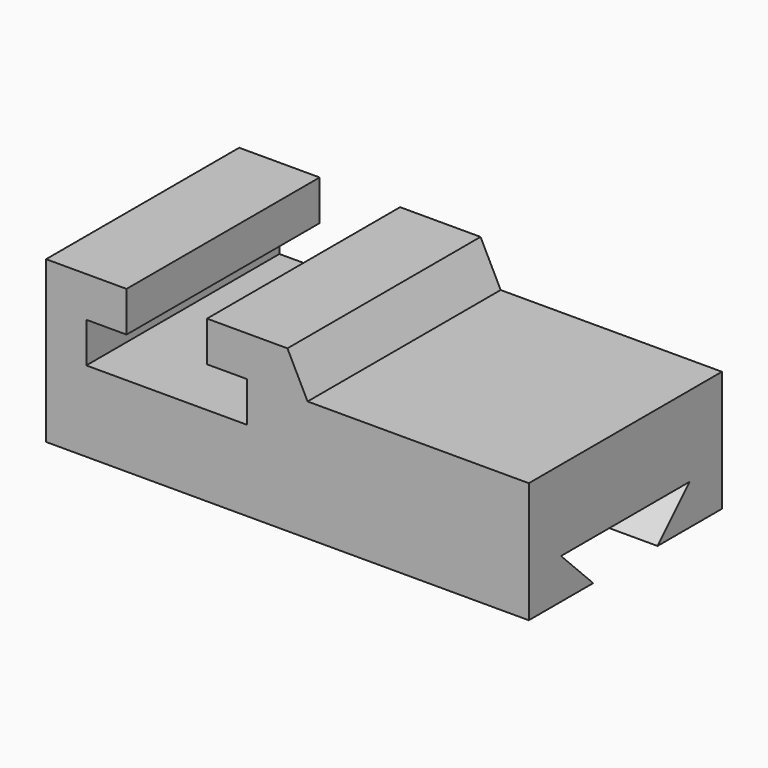
from build123d import *

# Parameters (mm, degrees)
F1_DEPTH = 38.1
F3_DEPTH = 152.401


with BuildPart() as f1:
    # F0 (on Front) → F1 (new body, symmetric)
    with BuildSketch(Plane.XZ):
        Polygon((-76.2, -25.4), (76.2, -25.4), (76.2, 12.7), (6.35, 12.7), (0, 25.4), (-25.4, 25.4), (-25.4, 12.7), (-12.7, 12.7), (-12.7, 0), (-63.5, 0), (-63.5, 12.7), (-50.8, 12.7), (-50.8, 25.4), (-76.2, 25.4), align=None)
    extrude(amount=F1_DEPTH, both=True)

    # F2 (on face) → F3 (cut, through all)
    with BuildSketch(Plane.YZ.offset(76.2)):
        Polygon((25.389396, -12.7), (-25.4, -12.7), (-12.7, -25.4), (12.7, -25.4), align=None)
    extrude(amount=-F3_DEPTH, mode=Mode.SUBTRACT)


solid = f1.part
